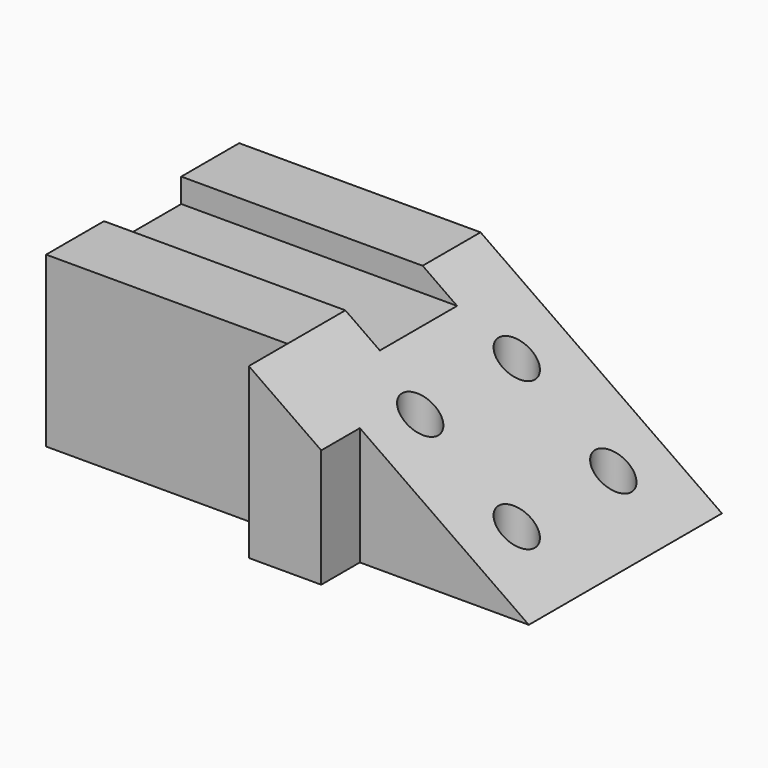
from build123d import *

# Parameters (mm, degrees)
F0_R     = 3.75
F0_W     = 15
F0_H     = 10
F1_DEPTH = 35
F3_DEPTH = 60.001
F4_W     = 20
F4_H     = 5
F5_DEPTH = 100.001


with BuildPart() as f1:
    # F0 (on Top) → F1 (new body)
    with BuildSketch(Plane.XY):
        Polygon((50, 25), (-50, 25), (-50, -25), (0, -25), (15, -25), (50, -25), align=None)
        with Locations((17.5, -12.5)):
            Circle(F0_R, mode=Mode.SUBTRACT)
        with Locations((37.5, -12.5)):
            Circle(F0_R, mode=Mode.SUBTRACT)
        with Locations((17.5, 12.5)):
            Circle(F0_R, mode=Mode.SUBTRACT)
        with Locations((37.5, 12.5)):
            Circle(F0_R, mode=Mode.SUBTRACT)
        with Locations((7.5, -30)):
            Rectangle(F0_W, F0_H)
    extrude(amount=F1_DEPTH)

    # F2 (on face) → F3 (cut, through all)
    with BuildSketch(Plane(origin=(0, 25, 0), x_dir=(-1, 0, 0), z_dir=(0, 1, 0))):
        Polygon((-50, 35), (-50, 0), (0, 35), align=None)
    extrude(amount=-F3_DEPTH, mode=Mode.SUBTRACT)

    # F4 (on face) → F5 (cut, through all)
    with BuildSketch(Plane(origin=(-50, 0, 0), x_dir=(0, -1, 0), z_dir=(-1, 0, 0))):
        with Locations((0, 32.5)):
            Rectangle(F4_W, F4_H)
    extrude(amount=-F5_DEPTH, mode=Mode.SUBTRACT)


solid = f1.part
